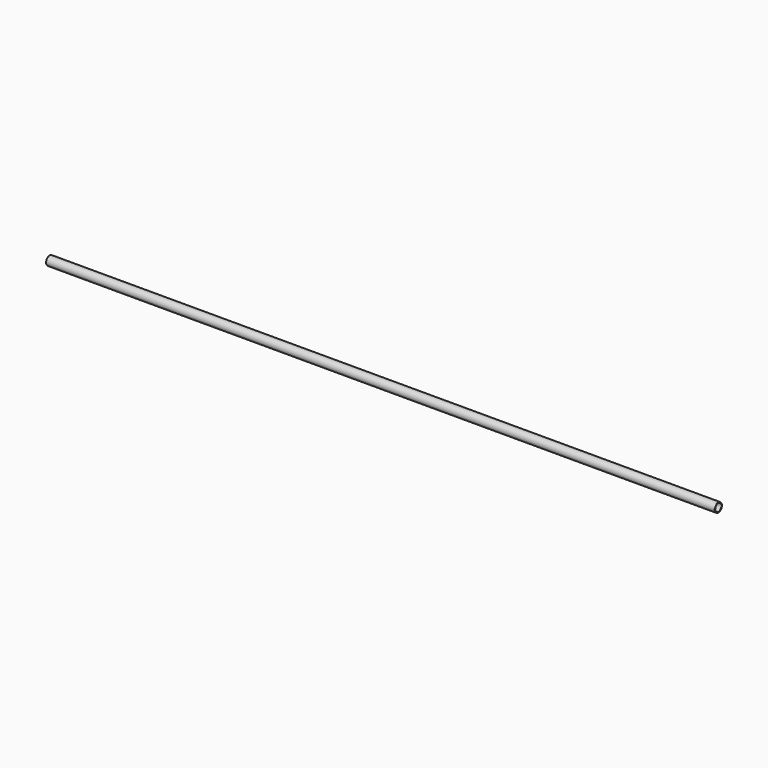
from build123d import *

# Parameters (mm, degrees)
F0_R      = 57.1415947529
F0_R_2    = 52.3190923733
F3_DEPTH  = 4572
F4_DEPTH  = 1100
F5_COUNT  = 36
F19_DEPTH = 550
F20_COUNT = 36
F21_R     = 61.8874208771
F21_R_2   = 60.4861336825
F22_DEPTH = 4572


with BuildPart() as f3:
    # F0 (on Right) → F3 (new body, symmetric)
    with BuildSketch(Plane.YZ):
        Circle(F0_R)
        Circle(F0_R_2, mode=Mode.SUBTRACT)
    extrude(amount=F3_DEPTH, both=True)


with BuildPart() as f4:
    # F1 (on Right) → F4 (new body)
    with BuildSketch(Plane.YZ):
        Polygon((57.2508387268, 4.4941948727), (57.2508387268, 0), (57.2508238256, -4.4888942502), (59.2646859586, -4.4888942502), (59.2646859586, 4.4941948727), align=None)
    extrude(amount=F4_DEPTH)


with BuildPart() as f5_1:
    # F5: instance of F4
    add(f4.part.rotate(Axis((1.6346164048, 0, 0), (1, 0, 0)), 1 * 360 / F5_COUNT))


with BuildPart() as f5_2:
    # F5: instance of F4
    add(f4.part.rotate(Axis((1.6346164048, 0, 0), (1, 0, 0)), 2 * 360 / F5_COUNT))


with BuildPart() as f5_3:
    # F5: instance of F4
    add(f4.part.rotate(Axis((1.6346164048, 0, 0), (1, 0, 0)), 3 * 360 / F5_COUNT))


with BuildPart() as f5_4:
    # F5: instance of F4
    add(f4.part.rotate(Axis((1.6346164048, 0, 0), (1, 0, 0)), 4 * 360 / F5_COUNT))


with BuildPart() as f5_5:
    # F5: instance of F4
    add(f4.part.rotate(Axis((1.6346164048, 0, 0), (1, 0, 0)), 5 * 360 / F5_COUNT))


with BuildPart() as f5_6:
    # F5: instance of F4
    add(f4.part.rotate(Axis((1.6346164048, 0, 0), (1, 0, 0)), 6 * 360 / F5_COUNT))


with BuildPart() as f5_7:
    # F5: instance of F4
    add(f4.part.rotate(Axis((1.6346164048, 0, 0), (1, 0, 0)), 7 * 360 / F5_COUNT))


with BuildPart() as f5_8:
    # F5: instance of F4
    add(f4.part.rotate(Axis((1.6346164048, 0, 0), (1, 0, 0)), 8 * 360 / F5_COUNT))


with BuildPart() as f5_9:
    # F5: instance of F4
    add(f4.part.rotate(Axis((1.6346164048, 0, 0), (1, 0, 0)), 9 * 360 / F5_COUNT))


with BuildPart() as f5_10:
    # F5: instance of F4
    add(f4.part.rotate(Axis((1.6346164048, 0, 0), (1, 0, 0)), 10 * 360 / F5_COUNT))


with BuildPart() as f5_11:
    # F5: instance of F4
    add(f4.part.rotate(Axis((1.6346164048, 0, 0), (1, 0, 0)), 11 * 360 / F5_COUNT))


with BuildPart() as f5_12:
    # F5: instance of F4
    add(f4.part.rotate(Axis((1.6346164048, 0, 0), (1, 0, 0)), 12 * 360 / F5_COUNT))


with BuildPart() as f5_13:
    # F5: instance of F4
    add(f4.part.rotate(Axis((1.6346164048, 0, 0), (1, 0, 0)), 13 * 360 / F5_COUNT))


with BuildPart() as f5_14:
    # F5: instance of F4
    add(f4.part.rotate(Axis((1.6346164048, 0, 0), (1, 0, 0)), 14 * 360 / F5_COUNT))


with BuildPart() as f5_15:
    # F5: instance of F4
    add(f4.part.rotate(Axis((1.6346164048, 0, 0), (1, 0, 0)), 15 * 360 / F5_COUNT))


with BuildPart() as f5_16:
    # F5: instance of F4
    add(f4.part.rotate(Axis((1.6346164048, 0, 0), (1, 0, 0)), 16 * 360 / F5_COUNT))


with BuildPart() as f5_17:
    # F5: instance of F4
    add(f4.part.rotate(Axis((1.6346164048, 0, 0), (1, 0, 0)), 17 * 360 / F5_COUNT))


with BuildPart() as f5_18:
    # F5: instance of F4
    add(f4.part.rotate(Axis((1.6346164048, 0, 0), (1, 0, 0)), 18 * 360 / F5_COUNT))


with BuildPart() as f5_19:
    # F5: instance of F4
    add(f4.part.rotate(Axis((1.6346164048, 0, 0), (1, 0, 0)), 19 * 360 / F5_COUNT))


with BuildPart() as f5_20:
    # F5: instance of F4
    add(f4.part.rotate(Axis((1.6346164048, 0, 0), (1, 0, 0)), 20 * 360 / F5_COUNT))


with BuildPart() as f5_21:
    # F5: instance of F4
    add(f4.part.rotate(Axis((1.6346164048, 0, 0), (1, 0, 0)), 21 * 360 / F5_COUNT))


with BuildPart() as f5_22:
    # F5: instance of F4
    add(f4.part.rotate(Axis((1.6346164048, 0, 0), (1, 0, 0)), 22 * 360 / F5_COUNT))


with BuildPart() as f5_23:
    # F5: instance of F4
    add(f4.part.rotate(Axis((1.6346164048, 0, 0), (1, 0, 0)), 23 * 360 / F5_COUNT))


with BuildPart() as f5_24:
    # F5: instance of F4
    add(f4.part.rotate(Axis((1.6346164048, 0, 0), (1, 0, 0)), 24 * 360 / F5_COUNT))


with BuildPart() as f5_25:
    # F5: instance of F4
    add(f4.part.rotate(Axis((1.6346164048, 0, 0), (1, 0, 0)), 25 * 360 / F5_COUNT))


with BuildPart() as f5_26:
    # F5: instance of F4
    add(f4.part.rotate(Axis((1.6346164048, 0, 0), (1, 0, 0)), 26 * 360 / F5_COUNT))


with BuildPart() as f5_27:
    # F5: instance of F4
    add(f4.part.rotate(Axis((1.6346164048, 0, 0), (1, 0, 0)), 27 * 360 / F5_COUNT))


with BuildPart() as f5_28:
    # F5: instance of F4
    add(f4.part.rotate(Axis((1.6346164048, 0, 0), (1, 0, 0)), 28 * 360 / F5_COUNT))


with BuildPart() as f5_29:
    # F5: instance of F4
    add(f4.part.rotate(Axis((1.6346164048, 0, 0), (1, 0, 0)), 29 * 360 / F5_COUNT))


with BuildPart() as f5_30:
    # F5: instance of F4
    add(f4.part.rotate(Axis((1.6346164048, 0, 0), (1, 0, 0)), 30 * 360 / F5_COUNT))


with BuildPart() as f5_31:
    # F5: instance of F4
    add(f4.part.rotate(Axis((1.6346164048, 0, 0), (1, 0, 0)), 31 * 360 / F5_COUNT))


with BuildPart() as f5_32:
    # F5: instance of F4
    add(f4.part.rotate(Axis((1.6346164048, 0, 0), (1, 0, 0)), 32 * 360 / F5_COUNT))


with BuildPart() as f5_33:
    # F5: instance of F4
    add(f4.part.rotate(Axis((1.6346164048, 0, 0), (1, 0, 0)), 33 * 360 / F5_COUNT))


with BuildPart() as f5_34:
    # F5: instance of F4
    add(f4.part.rotate(Axis((1.6346164048, 0, 0), (1, 0, 0)), 34 * 360 / F5_COUNT))


with BuildPart() as f5_35:
    # F5: instance of F4
    add(f4.part.rotate(Axis((1.6346164048, 0, 0), (1, 0, 0)), 35 * 360 / F5_COUNT))


with BuildPart() as f8_1:
    # F8: instance of F5_1
    add(f5_1.part.mirror(Plane.YZ.offset(-10)))


with BuildPart() as f8_2:
    # F8: instance of F5_2
    add(f5_2.part.mirror(Plane.YZ.offset(-10)))


with BuildPart() as f8_3:
    # F8: instance of F5_11
    add(f5_11.part.mirror(Plane.YZ.offset(-10)))


with BuildPart() as f8_4:
    # F8: instance of F5_5
    add(f5_5.part.mirror(Plane.YZ.offset(-10)))


with BuildPart() as f8_5:
    # F8: instance of F5_32
    add(f5_32.part.mirror(Plane.YZ.offset(-10)))


with BuildPart() as f8_6:
    # F8: instance of F5_29
    add(f5_29.part.mirror(Plane.YZ.offset(-10)))


with BuildPart() as f8_7:
    # F8: instance of F5_26
    add(f5_26.part.mirror(Plane.YZ.offset(-10)))


with BuildPart() as f8_8:
    # F8: instance of F5_30
    add(f5_30.part.mirror(Plane.YZ.offset(-10)))


with BuildPart() as f8_9:
    # F8: instance of F5_28
    add(f5_28.part.mirror(Plane.YZ.offset(-10)))


with BuildPart() as f8_10:
    # F8: instance of F5_33
    add(f5_33.part.mirror(Plane.YZ.offset(-10)))


with BuildPart() as f8_11:
    # F8: instance of F5_3
    add(f5_3.part.mirror(Plane.YZ.offset(-10)))


with BuildPart() as f8_12:
    # F8: instance of F5_6
    add(f5_6.part.mirror(Plane.YZ.offset(-10)))


with BuildPart() as f8_13:
    # F8: instance of F5_8
    add(f5_8.part.mirror(Plane.YZ.offset(-10)))


with BuildPart() as f8_14:
    # F8: instance of F5_12
    add(f5_12.part.mirror(Plane.YZ.offset(-10)))


with BuildPart() as f8_15:
    # F8: instance of F5_15
    add(f5_15.part.mirror(Plane.YZ.offset(-10)))


with BuildPart() as f8_16:
    # F8: instance of F5_27
    add(f5_27.part.mirror(Plane.YZ.offset(-10)))


with BuildPart() as f8_17:
    # F8: instance of F5_31
    add(f5_31.part.mirror(Plane.YZ.offset(-10)))


with BuildPart() as f8_18:
    # F8: instance of F5_13
    add(f5_13.part.mirror(Plane.YZ.offset(-10)))


with BuildPart() as f8_19:
    # F8: instance of F5_9
    add(f5_9.part.mirror(Plane.YZ.offset(-10)))


with BuildPart() as f8_20:
    # F8: instance of F5_4
    add(f5_4.part.mirror(Plane.YZ.offset(-10)))


with BuildPart() as f8_21:
    # F8: instance of F5_7
    add(f5_7.part.mirror(Plane.YZ.offset(-10)))


with BuildPart() as f8_22:
    # F8: instance of F5_10
    add(f5_10.part.mirror(Plane.YZ.offset(-10)))


with BuildPart() as f8_23:
    # F8: instance of F5_34
    add(f5_34.part.mirror(Plane.YZ.offset(-10)))


with BuildPart() as f8_24:
    # F8: instance of F5_35
    add(f5_35.part.mirror(Plane.YZ.offset(-10)))


with BuildPart() as f8_25:
    # F8: instance of F5_19
    add(f5_19.part.mirror(Plane.YZ.offset(-10)))


with BuildPart() as f8_26:
    # F8: instance of F5_21
    add(f5_21.part.mirror(Plane.YZ.offset(-10)))


with BuildPart() as f8_27:
    # F8: instance of F5_23
    add(f5_23.part.mirror(Plane.YZ.offset(-10)))


with BuildPart() as f8_28:
    # F8: instance of F5_17
    add(f5_17.part.mirror(Plane.YZ.offset(-10)))


with BuildPart() as f8_29:
    # F8: instance of F5_14
    add(f5_14.part.mirror(Plane.YZ.offset(-10)))


with BuildPart() as f8_30:
    # F8: instance of F4
    add(f4.part.mirror(Plane.YZ.offset(-10)))


with BuildPart() as f8_31:
    # F8: instance of F5_18
    add(f5_18.part.mirror(Plane.YZ.offset(-10)))


with BuildPart() as f8_32:
    # F8: instance of F5_20
    add(f5_20.part.mirror(Plane.YZ.offset(-10)))


with BuildPart() as f8_33:
    # F8: instance of F5_22
    add(f5_22.part.mirror(Plane.YZ.offset(-10)))


with BuildPart() as f8_34:
    # F8: instance of F5_24
    add(f5_24.part.mirror(Plane.YZ.offset(-10)))


with BuildPart() as f8_35:
    # F8: instance of F5_25
    add(f5_25.part.mirror(Plane.YZ.offset(-10)))


with BuildPart() as f8_36:
    # F8: instance of F5_16
    add(f5_16.part.mirror(Plane.YZ.offset(-10)))


with BuildPart() as f11_1:
    # F11: instance of F5_1
    add(f5_1.part.mirror(Plane.YZ.offset(1110)))


with BuildPart() as f11_2:
    # F11: instance of F5_2
    add(f5_2.part.mirror(Plane.YZ.offset(1110)))


with BuildPart() as f11_3:
    # F11: instance of F5_5
    add(f5_5.part.mirror(Plane.YZ.offset(1110)))


with BuildPart() as f11_4:
    # F11: instance of F4
    add(f4.part.mirror(Plane.YZ.offset(1110)))


with BuildPart() as f11_5:
    # F11: instance of F5_32
    add(f5_32.part.mirror(Plane.YZ.offset(1110)))


with BuildPart() as f11_6:
    # F11: instance of F5_33
    add(f5_33.part.mirror(Plane.YZ.offset(1110)))


with BuildPart() as f11_7:
    # F11: instance of F5_3
    add(f5_3.part.mirror(Plane.YZ.offset(1110)))


with BuildPart() as f11_8:
    # F11: instance of F5_18
    add(f5_18.part.mirror(Plane.YZ.offset(1110)))


with BuildPart() as f11_9:
    # F11: instance of F5_34
    add(f5_34.part.mirror(Plane.YZ.offset(1110)))


with BuildPart() as f11_10:
    # F11: instance of F5_35
    add(f5_35.part.mirror(Plane.YZ.offset(1110)))


with BuildPart() as f11_11:
    # F11: instance of F5_19
    add(f5_19.part.mirror(Plane.YZ.offset(1110)))


with BuildPart() as f11_12:
    # F11: instance of F5_21
    add(f5_21.part.mirror(Plane.YZ.offset(1110)))


with BuildPart() as f11_13:
    # F11: instance of F5_17
    add(f5_17.part.mirror(Plane.YZ.offset(1110)))


with BuildPart() as f11_14:
    # F11: instance of F5_14
    add(f5_14.part.mirror(Plane.YZ.offset(1110)))


with BuildPart() as f11_15:
    # F11: instance of F5_30
    add(f5_30.part.mirror(Plane.YZ.offset(1110)))


with BuildPart() as f11_16:
    # F11: instance of F5_15
    add(f5_15.part.mirror(Plane.YZ.offset(1110)))


with BuildPart() as f11_17:
    # F11: instance of F5_20
    add(f5_20.part.mirror(Plane.YZ.offset(1110)))


with BuildPart() as f11_18:
    # F11: instance of F5_31
    add(f5_31.part.mirror(Plane.YZ.offset(1110)))


with BuildPart() as f11_19:
    # F11: instance of F5_13
    add(f5_13.part.mirror(Plane.YZ.offset(1110)))


with BuildPart() as f11_20:
    # F11: instance of F5_16
    add(f5_16.part.mirror(Plane.YZ.offset(1110)))


with BuildPart() as f11_21:
    # F11: instance of F5_4
    add(f5_4.part.mirror(Plane.YZ.offset(1110)))


with BuildPart() as f11_22:
    # F11: instance of F5_23
    add(f5_23.part.mirror(Plane.YZ.offset(1110)))


with BuildPart() as f11_23:
    # F11: instance of F5_29
    add(f5_29.part.mirror(Plane.YZ.offset(1110)))


with BuildPart() as f11_24:
    # F11: instance of F5_6
    add(f5_6.part.mirror(Plane.YZ.offset(1110)))


with BuildPart() as f11_25:
    # F11: instance of F5_22
    add(f5_22.part.mirror(Plane.YZ.offset(1110)))


with BuildPart() as f11_26:
    # F11: instance of F5_11
    add(f5_11.part.mirror(Plane.YZ.offset(1110)))


with BuildPart() as f11_27:
    # F11: instance of F5_28
    add(f5_28.part.mirror(Plane.YZ.offset(1110)))


with BuildPart() as f11_28:
    # F11: instance of F5_12
    add(f5_12.part.mirror(Plane.YZ.offset(1110)))


with BuildPart() as f11_29:
    # F11: instance of F5_24
    add(f5_24.part.mirror(Plane.YZ.offset(1110)))


with BuildPart() as f11_30:
    # F11: instance of F5_7
    add(f5_7.part.mirror(Plane.YZ.offset(1110)))


with BuildPart() as f11_31:
    # F11: instance of F5_27
    add(f5_27.part.mirror(Plane.YZ.offset(1110)))


with BuildPart() as f11_32:
    # F11: instance of F5_10
    add(f5_10.part.mirror(Plane.YZ.offset(1110)))


with BuildPart() as f11_33:
    # F11: instance of F5_25
    add(f5_25.part.mirror(Plane.YZ.offset(1110)))


with BuildPart() as f11_34:
    # F11: instance of F5_8
    add(f5_8.part.mirror(Plane.YZ.offset(1110)))


with BuildPart() as f11_35:
    # F11: instance of F5_26
    add(f5_26.part.mirror(Plane.YZ.offset(1110)))


with BuildPart() as f11_36:
    # F11: instance of F5_9
    add(f5_9.part.mirror(Plane.YZ.offset(1110)))


with BuildPart() as f14_1:
    # F14: instance of F8_30
    add(f8_30.part.mirror(Plane.YZ.offset(-1130)))


with BuildPart() as f14_2:
    # F14: instance of F8_23
    add(f8_23.part.mirror(Plane.YZ.offset(-1130)))


with BuildPart() as f14_3:
    # F14: instance of F8_5
    add(f8_5.part.mirror(Plane.YZ.offset(-1130)))


with BuildPart() as f14_4:
    # F14: instance of F8_10
    add(f8_10.part.mirror(Plane.YZ.offset(-1130)))


with BuildPart() as f14_5:
    # F14: instance of F8_24
    add(f8_24.part.mirror(Plane.YZ.offset(-1130)))


with BuildPart() as f14_6:
    # F14: instance of F8_17
    add(f8_17.part.mirror(Plane.YZ.offset(-1130)))


with BuildPart() as f14_7:
    # F14: instance of F8_8
    add(f8_8.part.mirror(Plane.YZ.offset(-1130)))


with BuildPart() as f14_8:
    # F14: instance of F8_6
    add(f8_6.part.mirror(Plane.YZ.offset(-1130)))


with BuildPart() as f14_9:
    # F14: instance of F8_9
    add(f8_9.part.mirror(Plane.YZ.offset(-1130)))


with BuildPart() as f14_10:
    # F14: instance of F8_16
    add(f8_16.part.mirror(Plane.YZ.offset(-1130)))


with BuildPart() as f14_11:
    # F14: instance of F8_7
    add(f8_7.part.mirror(Plane.YZ.offset(-1130)))


with BuildPart() as f14_12:
    # F14: instance of F8_35
    add(f8_35.part.mirror(Plane.YZ.offset(-1130)))


with BuildPart() as f14_13:
    # F14: instance of F8_34
    add(f8_34.part.mirror(Plane.YZ.offset(-1130)))


with BuildPart() as f14_14:
    # F14: instance of F8_27
    add(f8_27.part.mirror(Plane.YZ.offset(-1130)))


with BuildPart() as f14_15:
    # F14: instance of F8_26
    add(f8_26.part.mirror(Plane.YZ.offset(-1130)))


with BuildPart() as f14_16:
    # F14: instance of F8_32
    add(f8_32.part.mirror(Plane.YZ.offset(-1130)))


with BuildPart() as f14_17:
    # F14: instance of F8_25
    add(f8_25.part.mirror(Plane.YZ.offset(-1130)))


with BuildPart() as f14_18:
    # F14: instance of F8_31
    add(f8_31.part.mirror(Plane.YZ.offset(-1130)))


with BuildPart() as f14_19:
    # F14: instance of F8_18
    add(f8_18.part.mirror(Plane.YZ.offset(-1130)))


with BuildPart() as f14_20:
    # F14: instance of F8_14
    add(f8_14.part.mirror(Plane.YZ.offset(-1130)))


with BuildPart() as f14_21:
    # F14: instance of F8_22
    add(f8_22.part.mirror(Plane.YZ.offset(-1130)))


with BuildPart() as f14_22:
    # F14: instance of F8_19
    add(f8_19.part.mirror(Plane.YZ.offset(-1130)))


with BuildPart() as f14_23:
    # F14: instance of F8_11
    add(f8_11.part.mirror(Plane.YZ.offset(-1130)))


with BuildPart() as f14_24:
    # F14: instance of F8_2
    add(f8_2.part.mirror(Plane.YZ.offset(-1130)))


with BuildPart() as f14_25:
    # F14: instance of F8_1
    add(f8_1.part.mirror(Plane.YZ.offset(-1130)))


with BuildPart() as f14_26:
    # F14: instance of F8_33
    add(f8_33.part.mirror(Plane.YZ.offset(-1130)))


with BuildPart() as f14_27:
    # F14: instance of F8_28
    add(f8_28.part.mirror(Plane.YZ.offset(-1130)))


with BuildPart() as f14_28:
    # F14: instance of F8_36
    add(f8_36.part.mirror(Plane.YZ.offset(-1130)))


with BuildPart() as f14_29:
    # F14: instance of F8_15
    add(f8_15.part.mirror(Plane.YZ.offset(-1130)))


with BuildPart() as f14_30:
    # F14: instance of F8_29
    add(f8_29.part.mirror(Plane.YZ.offset(-1130)))


with BuildPart() as f14_31:
    # F14: instance of F8_3
    add(f8_3.part.mirror(Plane.YZ.offset(-1130)))


with BuildPart() as f14_32:
    # F14: instance of F8_13
    add(f8_13.part.mirror(Plane.YZ.offset(-1130)))


with BuildPart() as f14_33:
    # F14: instance of F8_21
    add(f8_21.part.mirror(Plane.YZ.offset(-1130)))


with BuildPart() as f14_34:
    # F14: instance of F8_12
    add(f8_12.part.mirror(Plane.YZ.offset(-1130)))


with BuildPart() as f14_35:
    # F14: instance of F8_4
    add(f8_4.part.mirror(Plane.YZ.offset(-1130)))


with BuildPart() as f14_36:
    # F14: instance of F8_20
    add(f8_20.part.mirror(Plane.YZ.offset(-1130)))


with BuildPart() as f14_37:
    # F14: instance of F5_32
    add(f5_32.part.mirror(Plane.YZ.offset(-1130)))


with BuildPart() as f14_38:
    # F14: instance of F5_30
    add(f5_30.part.mirror(Plane.YZ.offset(-1130)))


with BuildPart() as f14_39:
    # F14: instance of F5_35
    add(f5_35.part.mirror(Plane.YZ.offset(-1130)))


with BuildPart() as f14_40:
    # F14: instance of F5_26
    add(f5_26.part.mirror(Plane.YZ.offset(-1130)))


with BuildPart() as f14_41:
    # F14: instance of F5_33
    add(f5_33.part.mirror(Plane.YZ.offset(-1130)))


with BuildPart() as f14_42:
    # F14: instance of F5_18
    add(f5_18.part.mirror(Plane.YZ.offset(-1130)))


with BuildPart() as f14_43:
    # F14: instance of F5_24
    add(f5_24.part.mirror(Plane.YZ.offset(-1130)))


with BuildPart() as f14_44:
    # F14: instance of F5_31
    add(f5_31.part.mirror(Plane.YZ.offset(-1130)))


with BuildPart() as f14_45:
    # F14: instance of F5_19
    add(f5_19.part.mirror(Plane.YZ.offset(-1130)))


with BuildPart() as f14_46:
    # F14: instance of F5_21
    add(f5_21.part.mirror(Plane.YZ.offset(-1130)))


with BuildPart() as f14_47:
    # F14: instance of F5_23
    add(f5_23.part.mirror(Plane.YZ.offset(-1130)))


with BuildPart() as f14_48:
    # F14: instance of F4
    add(f4.part.mirror(Plane.YZ.offset(-1130)))


with BuildPart() as f14_49:
    # F14: instance of F5_28
    add(f5_28.part.mirror(Plane.YZ.offset(-1130)))


with BuildPart() as f14_50:
    # F14: instance of F5_25
    add(f5_25.part.mirror(Plane.YZ.offset(-1130)))


with BuildPart() as f14_51:
    # F14: instance of F5_29
    add(f5_29.part.mirror(Plane.YZ.offset(-1130)))


with BuildPart() as f14_52:
    # F14: instance of F5_20
    add(f5_20.part.mirror(Plane.YZ.offset(-1130)))


with BuildPart() as f14_53:
    # F14: instance of F5_22
    add(f5_22.part.mirror(Plane.YZ.offset(-1130)))


with BuildPart() as f14_54:
    # F14: instance of F5_27
    add(f5_27.part.mirror(Plane.YZ.offset(-1130)))


with BuildPart() as f14_55:
    # F14: instance of F5_34
    add(f5_34.part.mirror(Plane.YZ.offset(-1130)))


with BuildPart() as f15_1:
    # F15: instance of F14_55
    add(f14_55.part.mirror(Plane.XY))


with BuildPart() as f15_2:
    # F15: instance of F14_39
    add(f14_39.part.mirror(Plane.XY))


with BuildPart() as f15_3:
    # F15: instance of F14_41
    add(f14_41.part.mirror(Plane.XY))


with BuildPart() as f15_4:
    # F15: instance of F14_37
    add(f14_37.part.mirror(Plane.XY))


with BuildPart() as f15_5:
    # F15: instance of F14_44
    add(f14_44.part.mirror(Plane.XY))


with BuildPart() as f15_6:
    # F15: instance of F14_38
    add(f14_38.part.mirror(Plane.XY))


with BuildPart() as f15_7:
    # F15: instance of F14_51
    add(f14_51.part.mirror(Plane.XY))


with BuildPart() as f15_8:
    # F15: instance of F14_49
    add(f14_49.part.mirror(Plane.XY))


with BuildPart() as f15_9:
    # F15: instance of F14_54
    add(f14_54.part.mirror(Plane.XY))


with BuildPart() as f15_10:
    # F15: instance of F14_40
    add(f14_40.part.mirror(Plane.XY))


with BuildPart() as f15_11:
    # F15: instance of F14_50
    add(f14_50.part.mirror(Plane.XY))


with BuildPart() as f15_12:
    # F15: instance of F14_43
    add(f14_43.part.mirror(Plane.XY))


with BuildPart() as f15_13:
    # F15: instance of F14_47
    add(f14_47.part.mirror(Plane.XY))


with BuildPart() as f15_14:
    # F15: instance of F14_53
    add(f14_53.part.mirror(Plane.XY))


with BuildPart() as f15_15:
    # F15: instance of F14_46
    add(f14_46.part.mirror(Plane.XY))


with BuildPart() as f15_16:
    # F15: instance of F14_52
    add(f14_52.part.mirror(Plane.XY))


with BuildPart() as f15_17:
    # F15: instance of F14_45
    add(f14_45.part.mirror(Plane.XY))


with BuildPart() as f15_18:
    # F15: instance of F14_42
    add(f14_42.part.mirror(Plane.XY))


with BuildPart() as f15_19:
    # F15: instance of F14_48
    add(f14_48.part.mirror(Plane.XY))


with BuildPart() as f19:
    # F18 (on offset) → F19 (new body)
    with BuildSketch(Plane.YZ.offset(-3370)):
        Polygon((57.2298765182, 4.4762021862), (57.2298765182, 0), (57.2704970837, -4.4354749843), (59.2273399234, -4.4354749843), (59.2273399234, 4.4762021862), align=None)
    extrude(amount=-F19_DEPTH)


with BuildPart() as f20_1:
    # F20: instance of F19
    add(f19.part.rotate(Axis((-99.9904945493, 0, 0), (-1, 0, 0)), 1 * 360 / F20_COUNT))


with BuildPart() as f20_2:
    # F20: instance of F19
    add(f19.part.rotate(Axis((-99.9904945493, 0, 0), (-1, 0, 0)), 2 * 360 / F20_COUNT))


with BuildPart() as f20_3:
    # F20: instance of F19
    add(f19.part.rotate(Axis((-99.9904945493, 0, 0), (-1, 0, 0)), 3 * 360 / F20_COUNT))


with BuildPart() as f20_4:
    # F20: instance of F19
    add(f19.part.rotate(Axis((-99.9904945493, 0, 0), (-1, 0, 0)), 4 * 360 / F20_COUNT))


with BuildPart() as f20_5:
    # F20: instance of F19
    add(f19.part.rotate(Axis((-99.9904945493, 0, 0), (-1, 0, 0)), 5 * 360 / F20_COUNT))


with BuildPart() as f20_6:
    # F20: instance of F19
    add(f19.part.rotate(Axis((-99.9904945493, 0, 0), (-1, 0, 0)), 6 * 360 / F20_COUNT))


with BuildPart() as f20_7:
    # F20: instance of F19
    add(f19.part.rotate(Axis((-99.9904945493, 0, 0), (-1, 0, 0)), 7 * 360 / F20_COUNT))


with BuildPart() as f20_8:
    # F20: instance of F19
    add(f19.part.rotate(Axis((-99.9904945493, 0, 0), (-1, 0, 0)), 8 * 360 / F20_COUNT))


with BuildPart() as f20_9:
    # F20: instance of F19
    add(f19.part.rotate(Axis((-99.9904945493, 0, 0), (-1, 0, 0)), 9 * 360 / F20_COUNT))


with BuildPart() as f20_10:
    # F20: instance of F19
    add(f19.part.rotate(Axis((-99.9904945493, 0, 0), (-1, 0, 0)), 10 * 360 / F20_COUNT))


with BuildPart() as f20_11:
    # F20: instance of F19
    add(f19.part.rotate(Axis((-99.9904945493, 0, 0), (-1, 0, 0)), 11 * 360 / F20_COUNT))


with BuildPart() as f20_12:
    # F20: instance of F19
    add(f19.part.rotate(Axis((-99.9904945493, 0, 0), (-1, 0, 0)), 12 * 360 / F20_COUNT))


with BuildPart() as f20_13:
    # F20: instance of F19
    add(f19.part.rotate(Axis((-99.9904945493, 0, 0), (-1, 0, 0)), 13 * 360 / F20_COUNT))


with BuildPart() as f20_14:
    # F20: instance of F19
    add(f19.part.rotate(Axis((-99.9904945493, 0, 0), (-1, 0, 0)), 14 * 360 / F20_COUNT))


with BuildPart() as f20_15:
    # F20: instance of F19
    add(f19.part.rotate(Axis((-99.9904945493, 0, 0), (-1, 0, 0)), 15 * 360 / F20_COUNT))


with BuildPart() as f20_16:
    # F20: instance of F19
    add(f19.part.rotate(Axis((-99.9904945493, 0, 0), (-1, 0, 0)), 16 * 360 / F20_COUNT))


with BuildPart() as f20_17:
    # F20: instance of F19
    add(f19.part.rotate(Axis((-99.9904945493, 0, 0), (-1, 0, 0)), 17 * 360 / F20_COUNT))


with BuildPart() as f20_18:
    # F20: instance of F19
    add(f19.part.rotate(Axis((-99.9904945493, 0, 0), (-1, 0, 0)), 18 * 360 / F20_COUNT))


with BuildPart() as f20_19:
    # F20: instance of F19
    add(f19.part.rotate(Axis((-99.9904945493, 0, 0), (-1, 0, 0)), 19 * 360 / F20_COUNT))


with BuildPart() as f20_20:
    # F20: instance of F19
    add(f19.part.rotate(Axis((-99.9904945493, 0, 0), (-1, 0, 0)), 20 * 360 / F20_COUNT))


with BuildPart() as f20_21:
    # F20: instance of F19
    add(f19.part.rotate(Axis((-99.9904945493, 0, 0), (-1, 0, 0)), 21 * 360 / F20_COUNT))


with BuildPart() as f20_22:
    # F20: instance of F19
    add(f19.part.rotate(Axis((-99.9904945493, 0, 0), (-1, 0, 0)), 22 * 360 / F20_COUNT))


with BuildPart() as f20_23:
    # F20: instance of F19
    add(f19.part.rotate(Axis((-99.9904945493, 0, 0), (-1, 0, 0)), 23 * 360 / F20_COUNT))


with BuildPart() as f20_24:
    # F20: instance of F19
    add(f19.part.rotate(Axis((-99.9904945493, 0, 0), (-1, 0, 0)), 24 * 360 / F20_COUNT))


with BuildPart() as f20_25:
    # F20: instance of F19
    add(f19.part.rotate(Axis((-99.9904945493, 0, 0), (-1, 0, 0)), 25 * 360 / F20_COUNT))


with BuildPart() as f20_26:
    # F20: instance of F19
    add(f19.part.rotate(Axis((-99.9904945493, 0, 0), (-1, 0, 0)), 26 * 360 / F20_COUNT))


with BuildPart() as f20_27:
    # F20: instance of F19
    add(f19.part.rotate(Axis((-99.9904945493, 0, 0), (-1, 0, 0)), 27 * 360 / F20_COUNT))


with BuildPart() as f20_28:
    # F20: instance of F19
    add(f19.part.rotate(Axis((-99.9904945493, 0, 0), (-1, 0, 0)), 28 * 360 / F20_COUNT))


with BuildPart() as f20_29:
    # F20: instance of F19
    add(f19.part.rotate(Axis((-99.9904945493, 0, 0), (-1, 0, 0)), 29 * 360 / F20_COUNT))


with BuildPart() as f20_30:
    # F20: instance of F19
    add(f19.part.rotate(Axis((-99.9904945493, 0, 0), (-1, 0, 0)), 30 * 360 / F20_COUNT))


with BuildPart() as f20_31:
    # F20: instance of F19
    add(f19.part.rotate(Axis((-99.9904945493, 0, 0), (-1, 0, 0)), 31 * 360 / F20_COUNT))


with BuildPart() as f20_32:
    # F20: instance of F19
    add(f19.part.rotate(Axis((-99.9904945493, 0, 0), (-1, 0, 0)), 32 * 360 / F20_COUNT))


with BuildPart() as f20_33:
    # F20: instance of F19
    add(f19.part.rotate(Axis((-99.9904945493, 0, 0), (-1, 0, 0)), 33 * 360 / F20_COUNT))


with BuildPart() as f20_34:
    # F20: instance of F19
    add(f19.part.rotate(Axis((-99.9904945493, 0, 0), (-1, 0, 0)), 34 * 360 / F20_COUNT))


with BuildPart() as f20_35:
    # F20: instance of F19
    add(f19.part.rotate(Axis((-99.9904945493, 0, 0), (-1, 0, 0)), 35 * 360 / F20_COUNT))


with BuildPart() as f22:
    # F21 (on Right) → F22 (new body, symmetric)
    with BuildSketch(Plane.YZ):
        with Locations((0.1057062618, 0.1464553497)):
            Circle(F21_R)
        with Locations((0.1057062618, 0.1464553497)):
            Circle(F21_R_2, mode=Mode.SUBTRACT)
    extrude(amount=F22_DEPTH, both=True)


solid = Compound([f3.part, f4.part, f5_1.part, f5_2.part, f5_3.part, f5_4.part, f5_5.part, f5_6.part, f5_7.part, f5_8.part, f5_9.part, f5_10.part, f5_11.part, f5_12.part, f5_13.part, f5_14.part, f5_15.part, f5_16.part, f5_17.part, f5_18.part, f5_19.part, f5_20.part, f5_21.part, f5_22.part, f5_23.part, f5_24.part, f5_25.part, f5_26.part, f5_27.part, f5_28.part, f5_29.part, f5_30.part, f5_31.part, f5_32.part, f5_33.part, f5_34.part, f5_35.part, f8_1.part, f8_2.part, f8_3.part, f8_4.part, f8_5.part, f8_6.part, f8_7.part, f8_8.part, f8_9.part, f8_10.part, f8_11.part, f8_12.part, f8_13.part, f8_14.part, f8_15.part, f8_16.part, f8_17.part, f8_18.part, f8_19.part, f8_20.part, f8_21.part, f8_22.part, f8_23.part, f8_24.part, f8_25.part, f8_26.part, f8_27.part, f8_28.part, f8_29.part, f8_30.part, f8_31.part, f8_32.part, f8_33.part, f8_34.part, f8_35.part, f8_36.part, f11_1.part, f11_2.part, f11_3.part, f11_4.part, f11_5.part, f11_6.part, f11_7.part, f11_8.part, f11_9.part, f11_10.part, f11_11.part, f11_12.part, f11_13.part, f11_14.part, f11_15.part, f11_16.part, f11_17.part, f11_18.part, f11_19.part, f11_20.part, f11_21.part, f11_22.part, f11_23.part, f11_24.part, f11_25.part, f11_26.part, f11_27.part, f11_28.part, f11_29.part, f11_30.part, f11_31.part, f11_32.part, f11_33.part, f11_34.part, f11_35.part, f11_36.part, f14_1.part, f14_2.part, f14_3.part, f14_4.part, f14_5.part, f14_6.part, f14_7.part, f14_8.part, f14_9.part, f14_10.part, f14_11.part, f14_12.part, f14_13.part, f14_14.part, f14_15.part, f14_16.part, f14_17.part, f14_18.part, f14_19.part, f14_20.part, f14_21.part, f14_22.part, f14_23.part, f14_24.part, f14_25.part, f14_26.part, f14_27.part, f14_28.part, f14_29.part, f14_30.part, f14_31.part, f14_32.part, f14_33.part, f14_34.part, f14_35.part, f14_36.part, f14_37.part, f14_38.part, f14_39.part, f14_40.part, f14_41.part, f14_42.part, f14_43.part, f14_44.part, f14_45.part, f14_46.part, f14_47.part, f14_48.part, f14_49.part, f14_50.part, f14_51.part, f14_52.part, f14_53.part, f14_54.part, f14_55.part, f15_1.part, f15_2.part, f15_3.part, f15_4.part, f15_5.part, f15_6.part, f15_7.part, f15_8.part, f15_9.part, f15_10.part, f15_11.part, f15_12.part, f15_13.part, f15_14.part, f15_15.part, f15_16.part, f15_17.part, f15_18.part, f15_19.part, f19.part, f20_1.part, f20_2.part, f20_3.part, f20_4.part, f20_5.part, f20_6.part, f20_7.part, f20_8.part, f20_9.part, f20_10.part, f20_11.part, f20_12.part, f20_13.part, f20_14.part, f20_15.part, f20_16.part, f20_17.part, f20_18.part, f20_19.part, f20_20.part, f20_21.part, f20_22.part, f20_23.part, f20_24.part, f20_25.part, f20_26.part, f20_27.part, f20_28.part, f20_29.part, f20_30.part, f20_31.part, f20_32.part, f20_33.part, f20_34.part, f20_35.part, f22.part])
